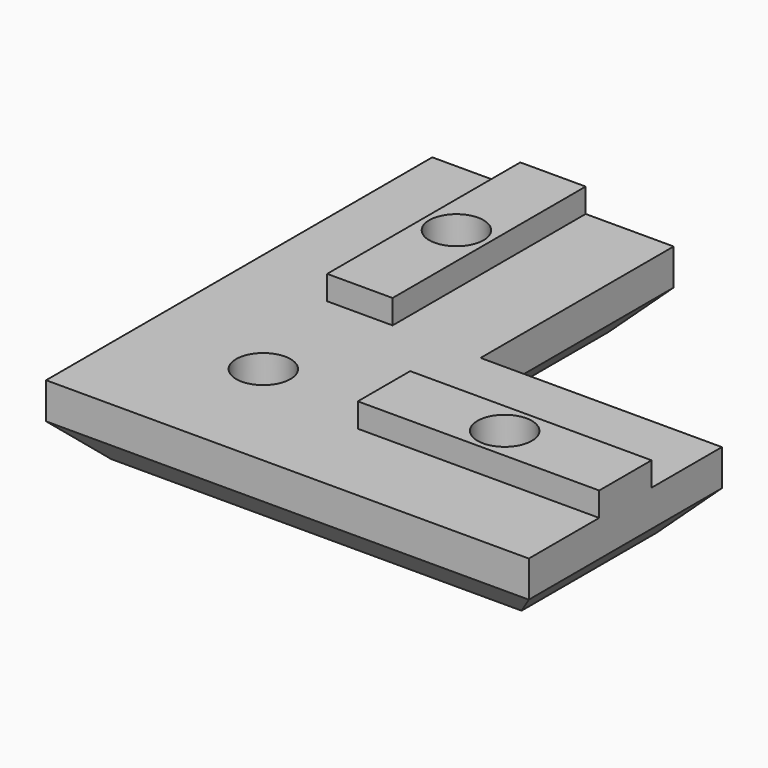
from build123d import *

# Parameters (mm, degrees)
F1_DEPTH = 6
F3_DEPTH = 2
F4_R     = 2.25
F5_DEPTH = 8.001
F6_R     = 3.75
F7_DEPTH = 2
F8_SIZE  = 3


with BuildPart() as f1:
    # F0 (on Top) → F1 (new body)
    with BuildSketch(Plane.XY):
        Polygon((0, 40), (0, 0), (40, 0), (40, 20), (20, 20), (20, 40), align=None)
    extrude(amount=F1_DEPTH)

    # F2 (on face) → F3 (join)
    with BuildSketch(Plane.XY.offset(6)):
        Polygon((12.71, 40), (7.29, 40), (7.29, 20), (10, 20), (12.71, 20), align=None)
        Polygon((40, 7.29), (40, 12.71), (20, 12.71), (20, 10), (20, 7.29), align=None)
    extrude(amount=F3_DEPTH)

    # F4 (on face) → F5 (cut, through all)
    with BuildSketch(Plane(origin=(0, 0, 0), x_dir=(1, 0, 0), z_dir=(0, 0, -1))):
        with Locations((10, -30)):
            Circle(F4_R)
        with Locations((10, -10)):
            Circle(F4_R)
        with Locations((30, -10)):
            Circle(F4_R)
    extrude(amount=-F5_DEPTH, mode=Mode.SUBTRACT)

    # F6 (on face) → F7 (cut)
    with BuildSketch(Plane(origin=(0, 0, 0), x_dir=(1, 0, 0), z_dir=(0, 0, -1))):
        with Locations((10, -10)):
            Circle(F6_R)
        with Locations((30, -10)):
            Circle(F6_R)
        with Locations((10, -30)):
            Circle(F6_R)
    extrude(amount=-F7_DEPTH, mode=Mode.SUBTRACT)

    # F8
    f8_edges = [f1.edges().sort_by_distance(p)[0] for p in [
        (20, 0, 0),
        (0, 20, 0),
        (20, 30, 0),
        (30, 20, 0),
        (40, 10, 0),
        (10, 40, 0),
    ]]
    chamfer(f8_edges, length=F8_SIZE)


solid = f1.part
